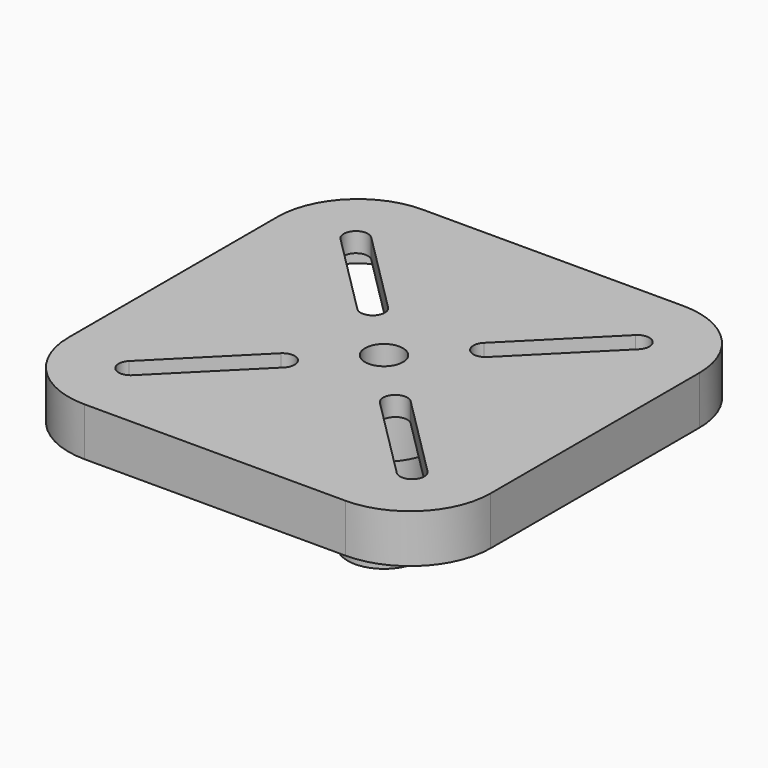
from build123d import *

# Parameters (mm, degrees)
PAD002_DEPTH          = 30
POCKET024_DEPTH       = 23
POLARPATTERN_COUNT    = 4
PAD013_DEPTH          = 12
POLARPATTERN001_COUNT = 4
SKETCH039_R           = 31
PAD014_DEPTH          = 42
SKETCH040_R           = 22.5
PAD015_DEPTH          = 105
SKETCH041_R           = 13.5
POCKET025_DEPTH       = 77
SKETCH042_R           = 11.75
POCKET026_DEPTH       = 50
POCKET027_DEPTH       = 15
POLARPATTERN002_COUNT = 4


with BuildPart() as part:
    # Sketch005 → Pad002 (new body)
    with BuildSketch(Plane.XY):
        with BuildLine():
            Line((-81, 131), (81, 131))
            ThreePointArc((131, 81), (116.355339, 116.355339), (81, 131))
            Line((131, 81), (131, -81))
            ThreePointArc((81, -131), (116.355339, -116.355339), (131, -81))
            Line((81, -131), (-81, -131))
            ThreePointArc((-131, -81), (-116.355339, -116.355339), (-81, -131))
            Line((-131, -81), (-131, 81))
            ThreePointArc((-81, 131), (-116.355339, 116.355339), (-131, 81))
        make_face()
    extrude(amount=PAD002_DEPTH)

    # Sketch037 → Pocket024 (cut)
    with BuildSketch(Plane(origin=(0, 0, 0), x_dir=(1, 0, 0), z_dir=(0, 0, -1))):
        with BuildLine():
            Line((-81, 121), (-5, 121))
            Line((-5, 121), (-5, 5))
            Line((-5, 5), (-121, 5))
            Line((-121, 5), (-121, 81))
            ThreePointArc((-81, 121), (-109.284271, 109.284271), (-121, 81))
        make_face()
    pocket024 = extrude(amount=-POCKET024_DEPTH, mode=Mode.SUBTRACT)

    # PolarPattern: Pocket024 ×4 about axis
    polarpattern_axis = Axis((0, 0, 0), (0, 0, -1))
    for i in range(1, POLARPATTERN_COUNT):
        add(pocket024.rotate(polarpattern_axis, i * 360 / POLARPATTERN_COUNT), mode=Mode.SUBTRACT)

    # Sketch038 → Pad013 (join)
    with BuildSketch(Plane.XY.offset(29.9)):
        Polygon((-12.391874, 12.391877), (99.536252, 124.332785), (105.391106, 122.550873), (110, 120), (120, 110), (124.952294, 101.341048), (12.337305, -12.337366), align=None)
    pad013 = extrude(amount=-PAD013_DEPTH)

    # PolarPattern001: Pad013 ×4 about axis
    polarpattern001_axis = Axis((0, 0, 29.9), (0, 0, 1))
    for i in range(1, POLARPATTERN001_COUNT):
        add(pad013.rotate(polarpattern001_axis, i * 360 / POLARPATTERN001_COUNT))

    # Sketch039 → Pad014 (join)
    with BuildSketch(Plane.XY.offset(29.9)):
        Circle(SKETCH039_R)
    extrude(amount=-PAD014_DEPTH)

    # Sketch040 → Pad015 (join)
    with BuildSketch(Plane.XY.offset(29.9)):
        Circle(SKETCH040_R)
    extrude(amount=-PAD015_DEPTH)

    # Sketch041 → Pocket025 (cut)
    with BuildSketch(Plane(origin=(0, 0, -75.1), x_dir=(1, 0, 0), z_dir=(0, 0, -1))):
        Circle(SKETCH041_R)
    extrude(amount=-POCKET025_DEPTH, mode=Mode.SUBTRACT)

    # Sketch042 → Pocket026 (cut)
    with BuildSketch(Plane.XY.offset(30)):
        Circle(SKETCH042_R)
    extrude(amount=-POCKET026_DEPTH, mode=Mode.SUBTRACT)

    # Sketch043 → Pocket027 (cut)
    with BuildSketch(Plane.XY.offset(30)):
        with BuildLine():
            ThreePointArc((29.696699, 40.303301), (29.696699, 29.696699), (40.303301, 29.696699))
            Line((40.303301, 29.696699), (92.629203, 82.022601))
            ThreePointArc((92.629203, 82.022601), (92.629203, 92.629203), (82.022601, 92.629203))
            Line((82.022601, 92.629203), (29.696699, 40.303301))
        make_face()
    pocket027 = extrude(amount=-POCKET027_DEPTH, mode=Mode.SUBTRACT)

    # PolarPattern002: Pocket027 ×4 about axis
    polarpattern002_axis = Axis((0, 0, 30), (0, 0, 1))
    for i in range(1, POLARPATTERN002_COUNT):
        add(pocket027.rotate(polarpattern002_axis, i * 360 / POLARPATTERN002_COUNT), mode=Mode.SUBTRACT)


with BuildPart() as part_1:
    # Body002 placement: moved
    add(part.part.moved(Location((0, 210, -105))))


solid = part_1.part
